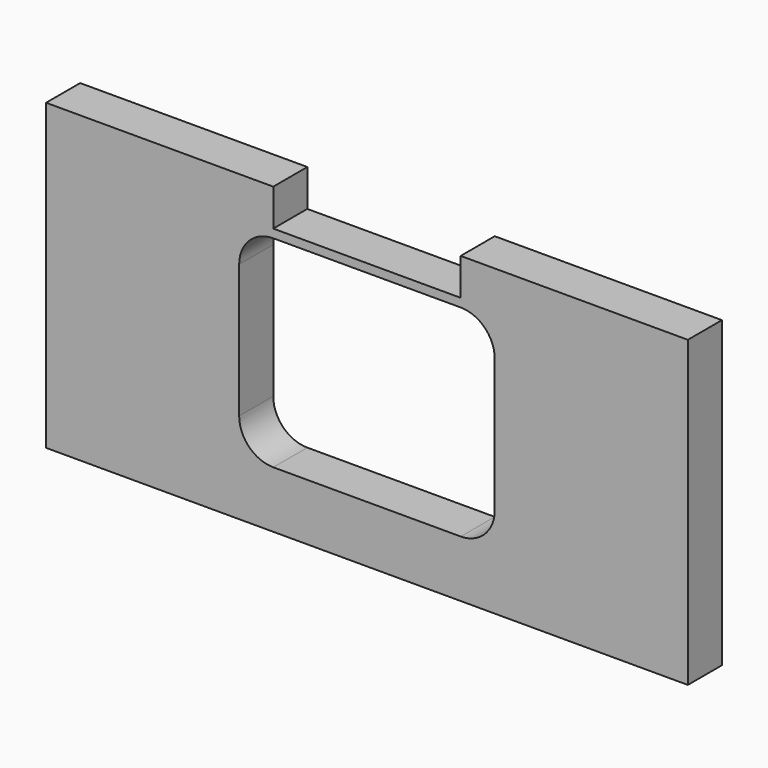
from build123d import *

# Parameters (mm, degrees)
F0_W     = 226
F0_H     = 111
F0_W_2   = 90
F0_H_2   = 71
F1_DEPTH = 15
F2_R     = 12
F4_DEPTH = 25


with BuildPart() as f1:
    # F0 (on Front) → F1 (new body)
    with BuildSketch(Plane.XZ):
        Rectangle(F0_W, F0_H)
        Rectangle(F0_W_2, F0_H_2, mode=Mode.SUBTRACT)
    extrude(amount=F1_DEPTH)

    # F2
    f2_edges = [f1.edges().sort_by_distance(p)[0] for p in [
        (45, -7.5, 35.5),
        (45, -7.5, -35.5),
        (-45, -7.5, -35.5),
        (-45, -7.5, 35.5),
    ]]
    fillet(f2_edges, radius=F2_R)

    # F3 (on face) → F4 (cut)
    with BuildSketch(Plane.XZ.offset(15)):
        Polygon((-33, 51.5), (-33, 47.5), (-33, 38.5), (33, 38.5), (33, 47.5), (33, 51.5), (113, 51.5), (113, 55.5), (-113, 55.5), (-113, 51.5), align=None)
    extrude(amount=-F4_DEPTH, mode=Mode.SUBTRACT)


solid = f1.part
